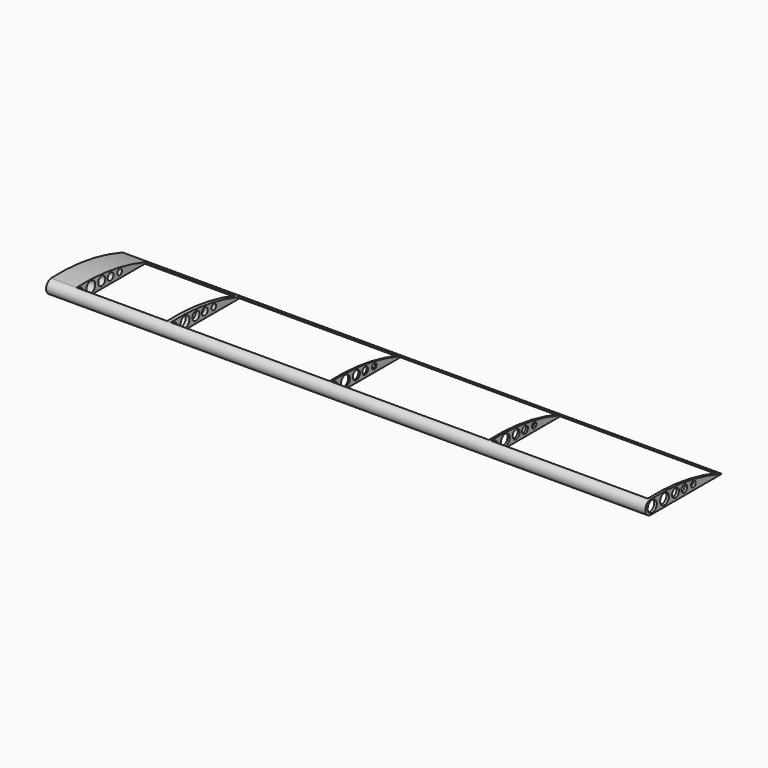
from build123d import *

# Parameters (mm, degrees)
F1_DEPTH  = 290.83
F2_R      = 2.75814
F3_DEPTH  = 488.95
F4_R      = 2.656401
F5_DEPTH  = 389.89
F6_R      = 2.130296
F7_DEPTH  = 366.268
F8_R      = 1.744402
F9_DEPTH  = 536.702
F10_R     = 1.383816
F11_DEPTH = 596.646
F13_W     = 76.048613
F13_H     = 42.006582
F14_DEPTH = 226.06
F15_W     = 76.562449
F15_H     = 42.006582
F16_DEPTH = 224.028
F17_W     = 77.076297
F17_H     = 41.74966
F18_DEPTH = 220.98
F19_W     = 43.933488
F19_H     = 41.492738
F20_DEPTH = 92.71


with BuildPart() as f1:
    # F0 (on Right) → F1 (new body)
    with BuildSketch(Plane.YZ):
        with BuildLine():
            ThreePointArc((43.487221, 0), (22.067204, 5.454355), (0, 6.721488))
            ThreePointArc((0, 6.721488), (-3.002391, 3.360744), (0, 0))
            Line((0, 0), (43.487221, 0))
        make_face()
    extrude(amount=F1_DEPTH)

    # F2 (on Right) → F3 (cut)
    with BuildSketch(Plane.YZ):
        with Locations((1.214727, 3.320253)):
            Circle(F2_R)
    extrude(amount=F3_DEPTH, mode=Mode.SUBTRACT)

    # F4 (on Right) → F5 (cut)
    with BuildSketch(Plane.YZ):
        with Locations((8.665053, 3.482217)):
            Circle(F4_R)
    extrude(amount=F5_DEPTH, mode=Mode.SUBTRACT)

    # F6 (on Right) → F7 (cut)
    with BuildSketch(Plane.YZ):
        with Locations((15.305555, 3.320253)):
            Circle(F6_R)
    extrude(amount=F7_DEPTH, mode=Mode.SUBTRACT)

    # F8 (on Right) → F9 (cut)
    with BuildSketch(Plane.YZ):
        with Locations((20.650355, 2.996326)):
            Circle(F8_R)
    extrude(amount=F9_DEPTH, mode=Mode.SUBTRACT)

    # F10 (on Right) → F11 (cut)
    with BuildSketch(Plane.YZ):
        with Locations((26.157115, 2.672399)):
            Circle(F10_R)
    extrude(amount=F11_DEPTH, mode=Mode.SUBTRACT)

    # F13 (on offset) → F14 (cut)
    with BuildSketch(Plane.XY.offset(-41.656)):
        with Locations((251.576125, 21.003291)):
            Rectangle(F13_W, F13_H)
    extrude(amount=F14_DEPTH, mode=Mode.SUBTRACT)

    # F15 (on offset) → F16 (cut)
    with BuildSketch(Plane.XY.offset(-41.656)):
        with Locations((174.242907, 21.003291)):
            Rectangle(F15_W, F15_H)
    extrude(amount=F16_DEPTH, mode=Mode.SUBTRACT)

    # F17 (on offset) → F18 (cut)
    with BuildSketch(Plane.XY.offset(-41.656)):
        with Locations((96.652771, 20.87483)):
            Rectangle(F17_W, F17_H)
    extrude(amount=F18_DEPTH, mode=Mode.SUBTRACT)

    # F19 (on offset) → F20 (cut)
    with BuildSketch(Plane.XY.offset(-41.656)):
        with Locations((34.349431, 20.746369)):
            Rectangle(F19_W, F19_H)
    extrude(amount=F20_DEPTH, mode=Mode.SUBTRACT)


solid = f1.part
